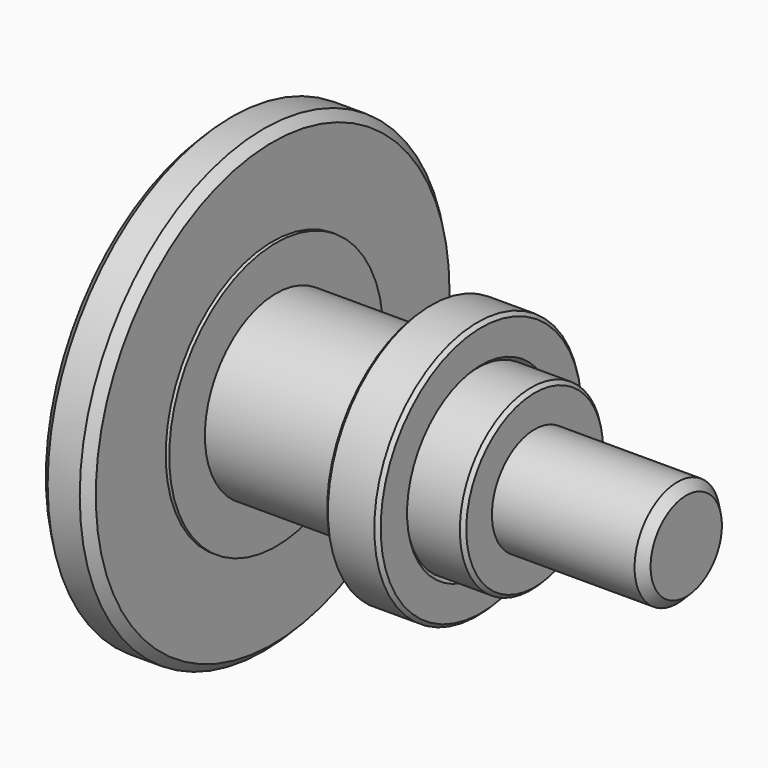
from build123d import *

# Parameters (mm, degrees)
F0_R     = 12.9
F0_R_2   = 1.5
F0_R_3   = 7.5
F0_R_4   = 5
F0_R_5   = 3
F1_DEPTH = 2.8
F2_DEPTH = 3
F3_DEPTH = 26
F4_SIZE  = 0.5
F5_DEPTH = 17.5
F6_DEPTH = 2
F7_SIZE  = 0.2
F9_START = -3
F8_R     = 7.25
F8_R_2   = 5
F9_DEPTH = 3
F10_SIZE = 0.2


with BuildPart() as f1:
    # F0 (on Right) → F1 (new body)
    with BuildSketch(Plane.YZ):
        Circle(F0_R)
        with Locations((0, -10)):
            Circle(F0_R_2, mode=Mode.SUBTRACT)
        with Locations((-10, 0)):
            Circle(F0_R_2, mode=Mode.SUBTRACT)
        Circle(F0_R_3, mode=Mode.SUBTRACT)
        with Locations((10, 0)):
            Circle(F0_R_2, mode=Mode.SUBTRACT)
        with Locations((0, 10)):
            Circle(F0_R_2, mode=Mode.SUBTRACT)
        Circle(F0_R_3)
        Circle(F0_R_4, mode=Mode.SUBTRACT)
        Circle(F0_R_4)
        Circle(F0_R_5, mode=Mode.SUBTRACT)
        Circle(F0_R_5)
        with Locations((10, 0)):
            Circle(F0_R_2)
        with Locations((0, 10)):
            Circle(F0_R_2)
        with Locations((-10, 0)):
            Circle(F0_R_2)
        with Locations((0, -10)):
            Circle(F0_R_2)
    extrude(amount=F1_DEPTH)

    # F0 (on Right) → F2 (join)
    with BuildSketch(Plane.YZ):
        Circle(F0_R_3)
        Circle(F0_R_4, mode=Mode.SUBTRACT)
        Circle(F0_R_4)
        Circle(F0_R_5, mode=Mode.SUBTRACT)
        Circle(F0_R_5)
    extrude(amount=F2_DEPTH)

    # F0 (on Right) → F3 (join)
    with BuildSketch(Plane.YZ):
        Circle(F0_R_5)
    extrude(amount=F3_DEPTH)

    # F4
    f4_edges = [f1.edges().sort_by_distance(p)[0] for p in [
        (0, -12.9, 0),
        (2.8, -12.9, 0),
        (26, -3, 0),
    ]]
    chamfer(f4_edges, length=F4_SIZE)

    # F0 (on Right) → F5 (join)
    with BuildSketch(Plane.YZ):
        Circle(F0_R_4)
        Circle(F0_R_5, mode=Mode.SUBTRACT)
        Circle(F0_R_5)
    extrude(amount=F5_DEPTH)

    # F0 (on Right) → F6 (cut)
    with BuildSketch(Plane.YZ):
        with Locations((10, 0)):
            Circle(F0_R_2)
        with Locations((0, -10)):
            Circle(F0_R_2)
        with Locations((0, 10)):
            Circle(F0_R_2)
        with Locations((-10, 0)):
            Circle(F0_R_2)
    extrude(amount=F6_DEPTH, mode=Mode.SUBTRACT)

    # F7
    f7_edges = [f1.edges().sort_by_distance(p)[0] for p in [
        (0, -1.5, -10),
        (0, -11.5, 0),
        (0, -1.5, 10),
        (0, 8.5, 0),
        (17.5, -5, 0),
    ]]
    chamfer(f7_edges, length=F7_SIZE)


with BuildPart() as f9:
    # F8 (on face) → F9 (new body)
    with BuildSketch(Plane.YZ.offset(17.5).offset(F9_START)):
        Circle(F8_R)
        Circle(F8_R_2, mode=Mode.SUBTRACT)
    extrude(amount=-F9_DEPTH)

    # F10
    f10_edges = [f9.edges().sort_by_distance(p)[0] for p in [
        (14.5, -5, 0),
        (14.5, -7.25, 0),
        (11.5, -7.25, 0),
        (11.5, -5, 0),
    ]]
    chamfer(f10_edges, length=F10_SIZE)


solid = Compound([f1.part, f9.part])
